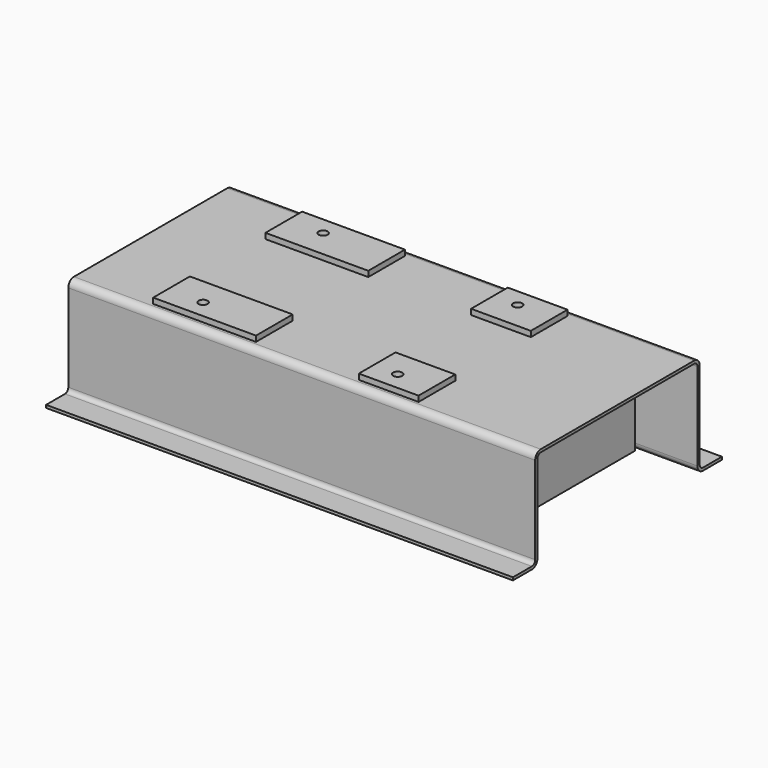
from build123d import *

# Parameters (mm, degrees)
F1_DEPTH = 1066.8
F2_W     = 12.7
F2_H     = 914.4
F3_DEPTH = 450.85
F4_W     = 469.9
F4_H     = 209.55
F4_R     = 20.6375
F4_W_2   = 273.05
F5_DEPTH = 25.4


with BuildPart() as f1:
    # F0 (on Right) → F1 (new body, symmetric)
    with BuildSketch(Plane.YZ):
        with BuildLine():
            ThreePointArc((457.2, 31.75), (466.49936, 9.29936), (488.95, 0))
            Line((488.95, 0), (596.9, 0))
            Line((596.9, 0), (596.9, 12.7))
            Line((596.9, 12.7), (488.95, 12.7))
            ThreePointArc((488.95, 12.7), (475.479616, 18.279616), (469.9, 31.75))
            Line((469.9, 31.75), (469.9, 431.8))
            ThreePointArc((469.9, 431.8), (460.60064, 454.25064), (438.15, 463.55))
            Line((438.15, 463.55), (0, 463.55))
            Line((0, 463.55), (-438.15, 463.55))
            ThreePointArc((-438.15, 463.55), (-460.60064, 454.25064), (-469.9, 431.8))
            Line((-469.9, 431.8), (-469.9, 31.75))
            ThreePointArc((-469.9, 31.75), (-475.479616, 18.279616), (-488.95, 12.7))
            Line((-488.95, 12.7), (-596.9, 12.7))
            Line((-596.9, 12.7), (-596.9, 0))
            Line((-596.9, 0), (-488.95, 0))
            ThreePointArc((-488.95, 0), (-466.49936, 9.29936), (-457.2, 31.75))
            Line((-457.2, 31.75), (-457.2, 431.8))
            ThreePointArc((-457.2, 431.8), (-451.620384, 445.270384), (-438.15, 450.85))
            Line((-438.15, 450.85), (0, 450.85))
            Line((0, 450.85), (438.15, 450.85))
            ThreePointArc((438.15, 450.85), (451.620384, 445.270384), (457.2, 431.8))
            Line((457.2, 431.8), (457.2, 31.75))
        make_face()
    extrude(amount=F1_DEPTH, both=True)

    # F2 (on face) → F3 (join, through all)
    with BuildSketch(Plane(origin=(0, 0, 450.85), x_dir=(1, 0, 0), z_dir=(0, 0, -1))):
        with Locations((-107.95, 0)):
            Rectangle(F2_W, F2_H)
        with Locations((774.7, 0)):
            Rectangle(F2_W, F2_H)
    extrude(amount=F3_DEPTH)

    # F4 (on face) → F5 (join)
    with BuildSketch(Plane.XY.offset(463.55)):
        with Locations((-479.552, 320.675)):
            Rectangle(F4_W, F4_H)
        with Locations((-552.45, 342.9)):
            Circle(F4_R, mode=Mode.SUBTRACT)
        with Locations((361.823, 320.675)):
            Rectangle(F4_W_2, F4_H)
        with Locations((336.55, 342.9)):
            Circle(F4_R, mode=Mode.SUBTRACT)
        with Locations((361.823, -320.675)):
            Rectangle(F4_W_2, F4_H)
        with Locations((336.55, -342.9)):
            Circle(F4_R, mode=Mode.SUBTRACT)
        with Locations((-479.552, -320.675)):
            Rectangle(F4_W, F4_H)
        with Locations((-552.45, -342.9)):
            Circle(F4_R, mode=Mode.SUBTRACT)
    extrude(amount=F5_DEPTH)


solid = f1.part
